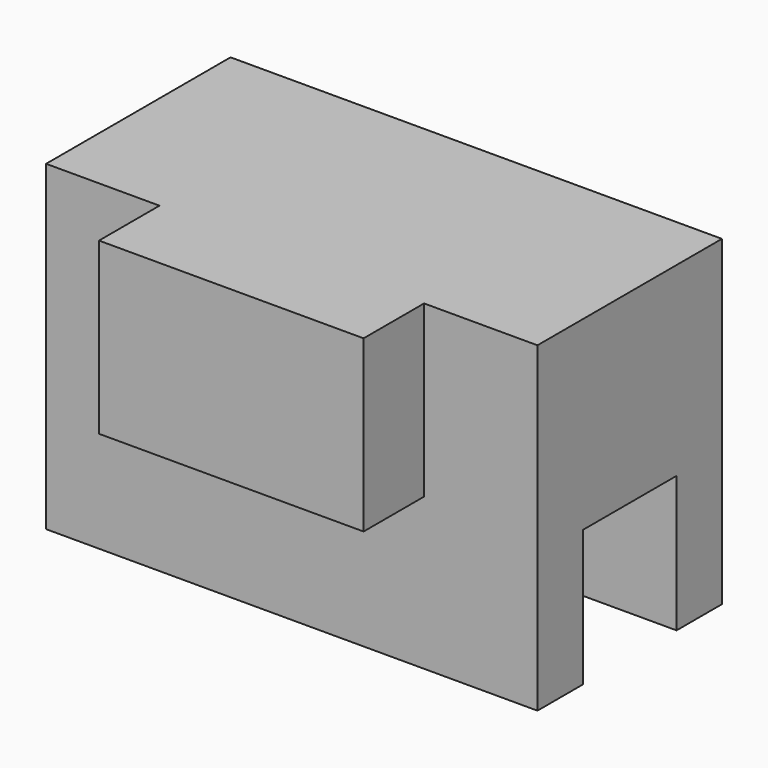
from build123d import *

# Parameters (mm, degrees)
F0_W     = 13
F0_H     = 1.5
F1_DEPTH = 3.6
F2_W     = 13
F2_H     = 6.1
F3_DEPTH = 4.91
F4_W     = 9
F4_H     = 3.1
F5_DEPTH = 0.7
F6_W     = 3.3
F6_H     = 3.1
F7_DEPTH = 0.7
F8_W     = 7
F8_H     = 4.5
F9_DEPTH = 2
F10_R    = 0.2


with BuildPart() as f1:
    # F0 (on Top) → F1 (new body)
    with BuildSketch(Plane.XY):
        with Locations((0, 2.3)):
            Rectangle(F0_W, F0_H)
        with Locations((0, -2.3)):
            Rectangle(F0_W, F0_H)
    extrude(amount=-F1_DEPTH)

    # F2 (on Top) → F3 (join)
    with BuildSketch(Plane.XY):
        Rectangle(F2_W, F2_H)
    extrude(amount=F3_DEPTH)

    # F4 (on face) → F5 (cut)
    with BuildSketch(Plane(origin=(0, 0, 0), x_dir=(1, 0, 0), z_dir=(0, 0, -1))):
        with Locations((-0.8, 0)):
            Rectangle(F4_W, F4_H)
    extrude(amount=-F5_DEPTH, mode=Mode.SUBTRACT)

    # F6 (on face) → F7 (cut)
    with BuildSketch(Plane(origin=(0, 0, 0.7), x_dir=(1, 0, 0), z_dir=(0, 0, -1))):
        with Locations((-0.8, 0)):
            Rectangle(F6_W, F6_H)
    extrude(amount=-F7_DEPTH, mode=Mode.SUBTRACT)

    # F8 (on face) → F9 (join)
    with BuildSketch(Plane.XZ.offset(3.05)):
        with Locations((0, 2.66)):
            Rectangle(F8_W, F8_H)
    extrude(amount=F9_DEPTH)

    # F10
    f10_edges = [f1.edges().sort_by_distance(p)[0] for p in [
        (-5.3, 0, 0),
        (3.7, 0, 0),
    ]]
    fillet(f10_edges, radius=F10_R)


solid = f1.part
